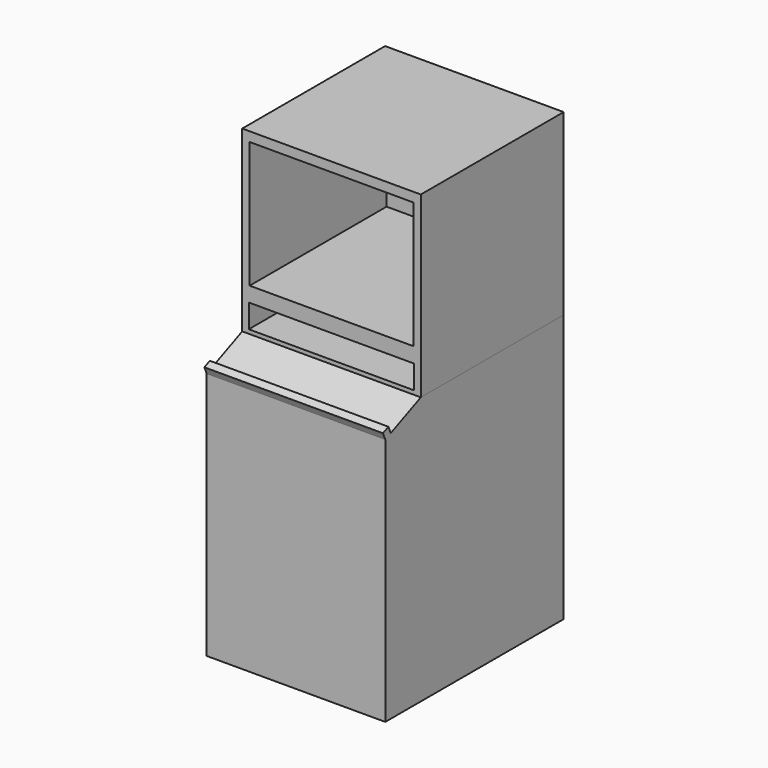
from build123d import *

# Parameters (mm, degrees)
F0_W      = 609.6
F0_H      = 609.6
F1_DEPTH  = 609.6
F2_W      = 558.8
F2_H      = 431.8
F2_W_2    = 564.8918747902
F2_H_2    = 80.4801862687
F3_DEPTH  = 584.2
F4_W      = 121.8805164099
F4_H      = 104.4690310955
F5_DEPTH  = 25.4
F4_R      = 22.6950102974
F6_DEPTH  = 25.4
F8_DEPTH  = 609.6
F9_W      = 609.6
F9_H      = 25.4
F10_DEPTH = 25.4


with BuildPart() as f1:
    # F0 (on Top) → F1 (new body)
    with BuildSketch(Plane.XY):
        Rectangle(F0_W, F0_H)
    extrude(amount=F1_DEPTH)

    # F2 (on face) → F3 (cut)
    with BuildSketch(Plane.XZ.offset(304.8)):
        with Locations((0, 361.5269362926)):
            Rectangle(F2_W, F2_H)
        with Locations((0, 53.8849085569)):
            Rectangle(F2_W_2, F2_H_2)
    extrude(amount=-F3_DEPTH, mode=Mode.SUBTRACT)

    # F4 (on face) → F5 (cut)
    with BuildSketch(Plane.XZ.offset(-279.4)):
        with Locations((-60.9402582049, 409.1012328863)):
            Rectangle(F4_W, F4_H)
    extrude(amount=-F5_DEPTH, mode=Mode.SUBTRACT)

    # F4 (on face) → F6 (cut)
    with BuildSketch(Plane.XZ.offset(-279.4)):
        with Locations((-60.9402582049, 409.1012328863)):
            Rectangle(F4_W, F4_H)
        with Locations((0, 49.6780462563)):
            Circle(F4_R)
    extrude(amount=-F6_DEPTH, mode=Mode.SUBTRACT)


with BuildPart() as f8:
    # F7 (on face) → F8 (new body)
    with BuildSketch(Plane.YZ.offset(304.8)):
        Polygon((304.8, 0), (-304.8, 0), (-456.3785592522, -65.4366134135), (-456.3785592522, -913.7966134135), (304.8, -914.4), align=None)
    extrude(amount=-F8_DEPTH)

    # F9 (on face) → F10 (join)
    with BuildSketch(Plane(origin=(0, -47.8809155294, 110.912221966), x_dir=(1, 0, 0), z_dir=(0, -0.3963453266, 0.9181015097))):
        with Locations((0, -432.2373401579)):
            Rectangle(F9_W, F9_H)
    extrude(amount=F10_DEPTH)


solid = Compound([f1.part, f8.part])
